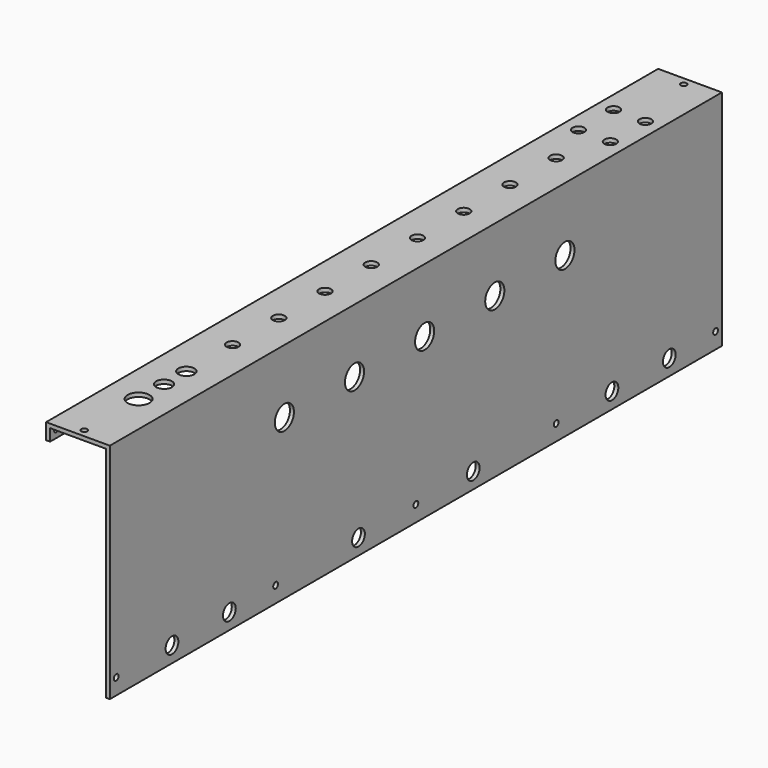
from build123d import *

# Parameters (mm, degrees)
F1_DEPTH = 609.6
F2_R     = 9.525
F2_R_2   = 2.38125
F2_R_3   = 6.35
F3_DEPTH = 50.801
F4_R     = 2.38125
F5_DEPTH = 3.175
F6_R     = 4.7625
F6_R_2   = 6.35
F6_R_3   = 8.73125
F6_R_4   = 2.38125
F7_DEPTH = 3.175


with BuildPart() as f1:
    # F0 (on Front) → F1 (new body)
    with BuildSketch(Plane.XZ):
        Polygon((-27.920566, 91.871106), (-27.920566, 79.171106), (-24.745566, 79.171106), (-24.745566, 88.696106), (19.704434, 88.696106), (19.704434, -85.928894), (22.879434, -85.928894), (22.879434, 91.871106), align=None)
    extrude(amount=F1_DEPTH)

    # F2 (on face) → F3 (cut, through all)
    with BuildSketch(Plane.YZ.offset(22.879434)):
        with Locations((-435.76875, 41.071106)):
            Circle(F2_R)
        with Locations((-365.91875, 41.071106)):
            Circle(F2_R)
        with Locations((-296.06875, 41.071106)):
            Circle(F2_R)
        with Locations((-226.21875, 41.071106)):
            Circle(F2_R)
        with Locations((-156.36875, 41.071106)):
            Circle(F2_R)
        with Locations((-603.25, -73.228894)):
            Circle(F2_R_2)
        with Locations((-547.6875, -73.228894)):
            Circle(F2_R_3)
        with Locations((-490.5375, -73.228894)):
            Circle(F2_R_3)
        with Locations((-361.95, -73.228894)):
            Circle(F2_R_3)
        with Locations((-444.5, -73.228894)):
            Circle(F2_R_2)
        with Locations((-304.8, -73.228894)):
            Circle(F2_R_2)
        with Locations((-247.65, -73.228894)):
            Circle(F2_R_3)
        with Locations((-165.1, -73.228894)):
            Circle(F2_R_2)
        with Locations((-109.5375, -73.228894)):
            Circle(F2_R_3)
        with Locations((-52.3875, -73.228894)):
            Circle(F2_R_3)
        with Locations((-6.35, -73.228894)):
            Circle(F2_R_2)
    extrude(amount=-F3_DEPTH, mode=Mode.SUBTRACT)

    # F4 (on face) → F5 (cut, through all)
    with BuildSketch(Plane(origin=(-27.920566, 0, 0), x_dir=(0, -1, 0), z_dir=(-1, 0, 0))):
        with Locations((6.35, 85.521106)):
            Circle(F4_R)
        with Locations((165.1, 85.521106)):
            Circle(F4_R)
        with Locations((304.8, 85.521106)):
            Circle(F4_R)
        with Locations((444.5, 85.521106)):
            Circle(F4_R)
        with Locations((603.25, 85.521106)):
            Circle(F4_R)
    extrude(amount=-F5_DEPTH, mode=Mode.SUBTRACT)

    # F6 (on face) → F7 (cut, through all)
    with BuildSketch(Plane.XY.offset(91.871106)):
        with Locations((10.179434, -60.325)):
            Circle(F6_R)
        with Locations((-15.220566, -60.325)):
            Circle(F6_R)
        with Locations((10.179434, -95.25)):
            Circle(F6_R)
        with Locations((-15.220566, -95.25)):
            Circle(F6_R)
        with Locations((-2.520566, -133.35)):
            Circle(F6_R)
        with Locations((-2.520566, -179.3875)):
            Circle(F6_R)
        with Locations((-2.520566, -225.425)):
            Circle(F6_R)
        with Locations((-2.520566, -317.5)):
            Circle(F6_R)
        with Locations((-2.520566, -409.575)):
            Circle(F6_R)
        with Locations((-2.520566, -501.65)):
            Circle(F6_R_2)
        with Locations((-2.520566, -363.5375)):
            Circle(F6_R)
        with Locations((-2.520566, -271.4625)):
            Circle(F6_R)
        with Locations((-2.520566, -523.875)):
            Circle(F6_R_2)
        with Locations((-2.520566, -549.275)):
            Circle(F6_R_3)
        with Locations((-2.520566, -455.6125)):
            Circle(F6_R)
        with Locations((-2.520566, -6.35)):
            Circle(F6_R_4)
        with Locations((-2.520566, -603.25)):
            Circle(F6_R_4)
    extrude(amount=-F7_DEPTH, mode=Mode.SUBTRACT)


solid = f1.part
